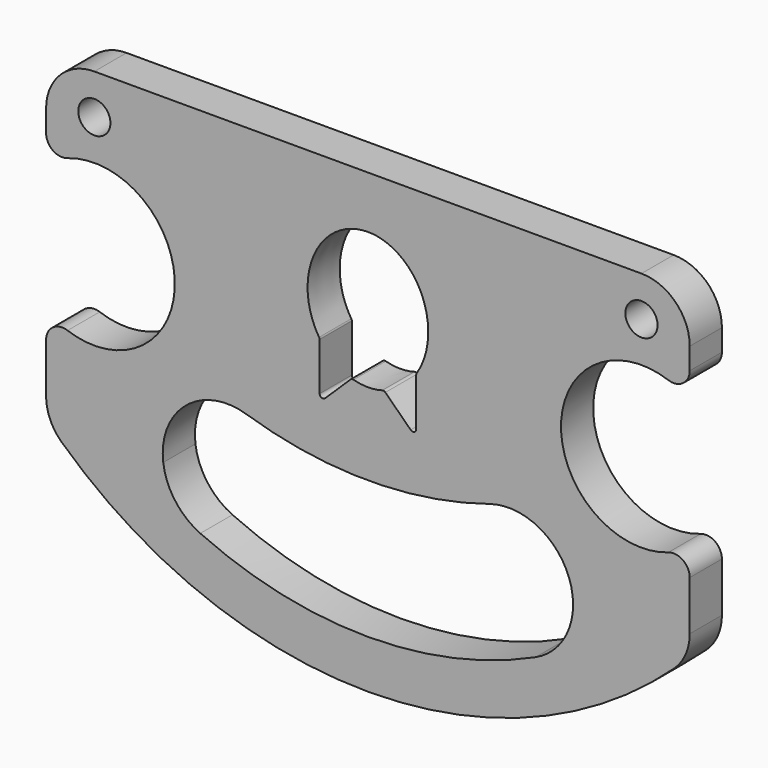
from build123d import *

# Parameters (mm, degrees)
F0_R     = 2.54
F1_DEPTH = 6.35
F2_R     = 7.62
F3_R     = 2.54
F4_R     = 0.508


with BuildPart() as f1:
    # F0 (on Front) → F1 (new body)
    with BuildSketch(Plane.XZ):
        with BuildLine():
            Line((-32.303487, -25.4), (-50.8, -25.4))
            ThreePointArc((-50.8, -25.4), (0, -46.746368), (50.8, -25.4))
            Line((50.8, -25.4), (32.303487, -25.4))
            ThreePointArc((32.303487, -25.4), (30.411219, -30.133186), (26.458333, -33.351637))
            ThreePointArc((26.458333, -33.351637), (0, -39.126368), (-26.458333, -33.351637))
            ThreePointArc((-26.458333, -33.351637), (-30.411219, -30.133186), (-32.303487, -25.4))
        make_face()
        with BuildLine():
            Line((50.8, 25.4), (-50.8, 25.4))
            Line((-50.8, 25.4), (-50.8, 10.16))
            ThreePointArc((-50.8, 10.16), (-30.48, 0), (-50.8, -10.16))
            Line((-50.8, -10.16), (-50.8, -25.4))
            Line((-50.8, -25.4), (-32.303487, -25.4))
            ThreePointArc((-32.303487, -25.4), (-28.735423, -16.315594), (-19.159483, -14.429098))
            ThreePointArc((-19.159483, -14.429098), (0, -17.388498), (19.159483, -14.429098))
            ThreePointArc((19.159483, -14.429098), (28.22833, -15.91891), (32.385, -24.115594))
            ThreePointArc((32.385, -24.115594), (32.364601, -24.759089), (32.303487, -25.4))
            Line((32.303487, -25.4), (50.8, -25.4))
            Line((50.8, -25.4), (50.8, -10.16))
            ThreePointArc((50.8, -10.16), (30.48, 0), (50.8, 10.16))
            Line((50.8, 10.16), (50.8, 25.4))
        make_face()
        with BuildLine():
            Line((-7.62, -9.017), (-7.62, -0.127))
            add(Edge.make_bspline(
                [(0, 17.145), (-19.05, 17.145), (-7.62, -0.127)],
                knots=[0, 0, 0, 2.214297, 2.214297, 2.214297], degree=2, weights=[1, 0.447214, 1]))
            add(Edge.make_bspline(
                [(7.62, -0.127), (19.05, 17.145), (0, 17.145)],
                knots=[4.068888, 4.068888, 4.068888, 6.283185, 6.283185, 6.283185], degree=2, weights=[1, 0.447214, 1]))
            Line((7.62, -0.127), (7.62, -9.017))
            Line((7.62, -9.017), (2.54, -4.0541))
            add(Edge.make_bspline(
                [(-2.54, -4.0541), (0, -4.850586), (2.54, -4.0541)],
                knots=[2.87166, 2.87166, 2.87166, 3.411525, 3.411525, 3.411525], degree=2, weights=[1, 0.963789, 1]))
            Line((-2.54, -4.0541), (-7.62, -9.017))
        make_face(mode=Mode.SUBTRACT)
        with Locations((-43.18, 19.05)):
            Circle(F0_R, mode=Mode.SUBTRACT)
        with Locations((43.18, 19.05)):
            Circle(F0_R, mode=Mode.SUBTRACT)
    extrude(amount=F1_DEPTH)

    # F2
    f2_edges = [f1.edges().sort_by_distance(p)[0] for p in [
        (50.8, -3.175, -25.4),
        (-50.8, -3.175, -25.4),
        (-50.8, -3.175, 25.4),
        (50.8, -3.175, 25.4),
    ]]
    fillet(f2_edges, radius=F2_R)

    # F3
    f3_edges = [f1.edges().sort_by_distance(p)[0] for p in [
        (-50.8, -3.175, -10.16),
        (50.8, -3.175, -10.16),
        (50.8, -3.175, 10.16),
        (-50.8, -3.175, 10.16),
    ]]
    fillet(f3_edges, radius=F3_R)

    # F4
    f4_edges = [f1.edges().sort_by_distance(p)[0] for p in [
        (-7.62, -3.175, -0.127),
        (-2.54, -3.175, -4.0541),
        (2.54, -3.175, -4.0541),
        (-7.62, -3.175, -9.017),
        (7.62, -3.175, -9.017),
        (7.62, -3.175, -0.127),
    ]]
    fillet(f4_edges, radius=F4_R)


solid = f1.part
